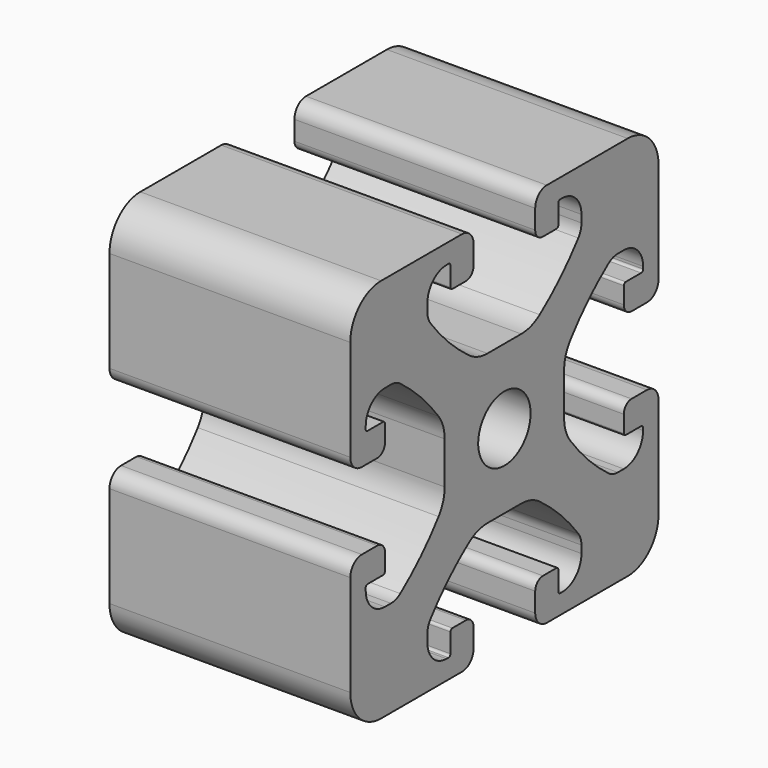
from build123d import *

# Parameters (mm, degrees)
F0_R     = 3.4
F1_DEPTH = 25


with BuildPart() as f1:
    # F0 (on Right) → F1 (new body)
    with BuildSketch(Plane.YZ):
        with BuildLine():
            Line((4.085178, -16.514598), (4.085178, -18.514598))
            ThreePointArc((4.085178, -18.514598), (4.524518, -19.575258), (5.585178, -20.014598))
            Line((5.585178, -20.014598), (16.085178, -20.014598))
            ThreePointArc((16.085178, -20.014598), (18.913605, -18.843025), (20.085178, -16.014598))
            Line((20.085178, -16.014598), (20.085178, -5.514598))
            ThreePointArc((20.085178, -5.514598), (19.645838, -4.453938), (18.585178, -4.014598))
            Line((18.585178, -4.014598), (16.585178, -4.014598))
            ThreePointArc((16.585178, -4.014598), (15.878071, -4.307491), (15.585178, -5.014598))
            Line((15.585178, -5.014598), (15.585178, -6.764598))
            ThreePointArc((15.585178, -6.764598), (15.658401, -6.941375), (15.835178, -7.014598))
            Line((15.835178, -7.014598), (17.835178, -7.014598))
            ThreePointArc((17.835178, -7.014598), (18.011955, -7.087821), (18.085178, -7.264598))
            Line((18.085178, -7.264598), (18.085178, -7.514598))
            ThreePointArc((18.085178, -7.514598), (17.352945, -9.282365), (15.585178, -10.014598))
            Line((15.585178, -10.014598), (14.805538, -10.014598))
            ThreePointArc((14.805538, -10.014598), (14.168971, -9.910589), (13.598613, -9.609381))
            ThreePointArc((13.598613, -9.609381), (10.934174, -7.278628), (8.625654, -4.594903))
            ThreePointArc((8.625654, -4.594903), (8.037936, -3.465013), (7.835178, -2.207654))
            Line((7.835178, -2.207654), (7.835178, 2.178458))
            ThreePointArc((7.835178, 2.178458), (8.037936, 3.435818), (8.625654, 4.565707))
            ThreePointArc((8.625654, 4.565707), (10.934174, 7.249432), (13.598613, 9.580185))
            ThreePointArc((13.598613, 9.580185), (14.168971, 9.881393), (14.805538, 9.985402))
            Line((14.805538, 9.985402), (15.585178, 9.985402))
            ThreePointArc((15.585178, 9.985402), (17.352945, 9.253169), (18.085178, 7.485402))
            Line((18.085178, 7.485402), (18.085178, 7.235402))
            ThreePointArc((18.085178, 7.235402), (18.011955, 7.058625), (17.835178, 6.985402))
            Line((17.835178, 6.985402), (15.835178, 6.985402))
            ThreePointArc((15.835178, 6.985402), (15.658401, 6.912179), (15.585178, 6.735402))
            Line((15.585178, 6.735402), (15.585178, 4.985402))
            ThreePointArc((15.585178, 4.985402), (15.878071, 4.278295), (16.585178, 3.985402))
            Line((16.585178, 3.985402), (18.585178, 3.985402))
            ThreePointArc((18.585178, 3.985402), (19.645838, 4.424742), (20.085178, 5.485402))
            Line((20.085178, 5.485402), (20.085178, 15.985402))
            ThreePointArc((20.085178, 15.985402), (18.913605, 18.813829), (16.085178, 19.985402))
            Line((16.085178, 19.985402), (5.585178, 19.985402))
            ThreePointArc((5.585178, 19.985402), (4.524518, 19.546062), (4.085178, 18.485402))
            Line((4.085178, 18.485402), (4.085178, 16.485402))
            ThreePointArc((4.085178, 16.485402), (4.378071, 15.778295), (5.085178, 15.485402))
            Line((5.085178, 15.485402), (6.835178, 15.485402))
            ThreePointArc((6.835178, 15.485402), (7.011955, 15.558625), (7.085178, 15.735402))
            Line((7.085178, 15.735402), (7.085178, 17.735402))
            ThreePointArc((7.085178, 17.735402), (7.158401, 17.912179), (7.335178, 17.985402))
            Line((7.335178, 17.985402), (7.585178, 17.985402))
            ThreePointArc((7.585178, 17.985402), (9.352945, 17.253169), (10.085178, 15.485402))
            Line((10.085178, 15.485402), (10.085178, 14.705762))
            ThreePointArc((10.085178, 14.705762), (9.981169, 14.069195), (9.67996, 13.498837))
            ThreePointArc((9.67996, 13.498837), (7.349208, 10.834398), (4.665483, 8.525878))
            ThreePointArc((4.665483, 8.525878), (3.535593, 7.93816), (2.278234, 7.735402))
            Line((2.278234, 7.735402), (-2.107878, 7.735402))
            ThreePointArc((-2.107878, 7.735402), (-3.365238, 7.93816), (-4.495127, 8.525878))
            ThreePointArc((-4.495127, 8.525878), (-7.178852, 10.834398), (-9.509605, 13.498837))
            ThreePointArc((-9.509605, 13.498837), (-9.810813, 14.069195), (-9.914822, 14.705762))
            Line((-9.914822, 14.705762), (-9.914822, 15.485402))
            ThreePointArc((-9.914822, 15.485402), (-9.182589, 17.253169), (-7.414822, 17.985402))
            Line((-7.414822, 17.985402), (-7.164822, 17.985402))
            ThreePointArc((-7.164822, 17.985402), (-6.988045, 17.912179), (-6.914822, 17.735402))
            Line((-6.914822, 17.735402), (-6.914822, 15.735402))
            ThreePointArc((-6.914822, 15.735402), (-6.841599, 15.558625), (-6.664822, 15.485402))
            Line((-6.664822, 15.485402), (-4.914822, 15.485402))
            ThreePointArc((-4.914822, 15.485402), (-4.207715, 15.778295), (-3.914822, 16.485402))
            Line((-3.914822, 16.485402), (-3.914822, 18.485402))
            ThreePointArc((-3.914822, 18.485402), (-4.354162, 19.546062), (-5.414822, 19.985402))
            Line((-5.414822, 19.985402), (-15.914822, 19.985402))
            ThreePointArc((-15.914822, 19.985402), (-18.743249, 18.813829), (-19.914822, 15.985402))
            Line((-19.914822, 15.985402), (-19.914822, 5.485402))
            ThreePointArc((-19.914822, 5.485402), (-19.475482, 4.424742), (-18.414822, 3.985402))
            Line((-18.414822, 3.985402), (-16.414822, 3.985402))
            ThreePointArc((-16.414822, 3.985402), (-15.707715, 4.278295), (-15.414822, 4.985402))
            Line((-15.414822, 4.985402), (-15.414822, 6.735402))
            ThreePointArc((-15.414822, 6.735402), (-15.488045, 6.912179), (-15.664822, 6.985402))
            Line((-15.664822, 6.985402), (-17.664822, 6.985402))
            ThreePointArc((-17.664822, 6.985402), (-17.841599, 7.058625), (-17.914822, 7.235402))
            Line((-17.914822, 7.235402), (-17.914822, 7.485402))
            ThreePointArc((-17.914822, 7.485402), (-17.182589, 9.253169), (-15.414822, 9.985402))
            Line((-15.414822, 9.985402), (-14.635182, 9.985402))
            ThreePointArc((-14.635182, 9.985402), (-13.998616, 9.881393), (-13.428257, 9.580185))
            ThreePointArc((-13.428257, 9.580185), (-10.763818, 7.249432), (-8.455298, 4.565707))
            ThreePointArc((-8.455298, 4.565707), (-7.86758, 3.435818), (-7.664822, 2.178458))
            Line((-7.664822, 2.178458), (-7.664822, -2.207654))
            ThreePointArc((-7.664822, -2.207654), (-7.86758, -3.465013), (-8.455298, -4.594903))
            ThreePointArc((-8.455298, -4.594903), (-10.763818, -7.278628), (-13.428257, -9.609381))
            ThreePointArc((-13.428257, -9.609381), (-13.998616, -9.910589), (-14.635182, -10.014598))
            Line((-14.635182, -10.014598), (-15.414822, -10.014598))
            ThreePointArc((-15.414822, -10.014598), (-17.182589, -9.282365), (-17.914822, -7.514598))
            Line((-17.914822, -7.514598), (-17.914822, -7.264598))
            ThreePointArc((-17.914822, -7.264598), (-17.841599, -7.087821), (-17.664822, -7.014598))
            Line((-17.664822, -7.014598), (-15.664822, -7.014598))
            ThreePointArc((-15.664822, -7.014598), (-15.488045, -6.941375), (-15.414822, -6.764598))
            Line((-15.414822, -6.764598), (-15.414822, -5.014598))
            ThreePointArc((-15.414822, -5.014598), (-15.707715, -4.307491), (-16.414822, -4.014598))
            Line((-16.414822, -4.014598), (-18.414822, -4.014598))
            ThreePointArc((-18.414822, -4.014598), (-19.475482, -4.453938), (-19.914822, -5.514598))
            Line((-19.914822, -5.514598), (-19.914822, -16.014598))
            ThreePointArc((-19.914822, -16.014598), (-18.743249, -18.843025), (-15.914822, -20.014598))
            Line((-15.914822, -20.014598), (-5.414822, -20.014598))
            ThreePointArc((-5.414822, -20.014598), (-4.354162, -19.575258), (-3.914822, -18.514598))
            Line((-3.914822, -18.514598), (-3.914822, -16.514598))
            ThreePointArc((-3.914822, -16.514598), (-4.207715, -15.807491), (-4.914822, -15.514598))
            Line((-4.914822, -15.514598), (-6.664822, -15.514598))
            ThreePointArc((-6.664822, -15.514598), (-6.841599, -15.587821), (-6.914822, -15.764598))
            Line((-6.914822, -15.764598), (-6.914822, -17.764598))
            ThreePointArc((-6.914822, -17.764598), (-6.988045, -17.941375), (-7.164822, -18.014598))
            Line((-7.164822, -18.014598), (-7.414822, -18.014598))
            ThreePointArc((-7.414822, -18.014598), (-9.182589, -17.282365), (-9.914822, -15.514598))
            Line((-9.914822, -15.514598), (-9.914822, -14.734958))
            ThreePointArc((-9.914822, -14.734958), (-9.810813, -14.098391), (-9.509605, -13.528033))
            ThreePointArc((-9.509605, -13.528033), (-7.178852, -10.863594), (-4.495127, -8.555074))
            ThreePointArc((-4.495127, -8.555074), (-3.365238, -7.967356), (-2.107878, -7.764598))
            Line((-2.107878, -7.764598), (2.278234, -7.764598))
            ThreePointArc((2.278234, -7.764598), (3.535593, -7.967356), (4.665483, -8.555074))
            ThreePointArc((4.665483, -8.555074), (7.349208, -10.863594), (9.67996, -13.528033))
            ThreePointArc((9.67996, -13.528033), (9.981169, -14.098391), (10.085178, -14.734958))
            Line((10.085178, -14.734958), (10.085178, -15.514598))
            ThreePointArc((10.085178, -15.514598), (9.352945, -17.282365), (7.585178, -18.014598))
            Line((7.585178, -18.014598), (7.335178, -18.014598))
            ThreePointArc((7.335178, -18.014598), (7.158401, -17.941375), (7.085178, -17.764598))
            Line((7.085178, -17.764598), (7.085178, -15.764598))
            ThreePointArc((7.085178, -15.764598), (7.011955, -15.587821), (6.835178, -15.514598))
            Line((6.835178, -15.514598), (5.085178, -15.514598))
            ThreePointArc((5.085178, -15.514598), (4.378071, -15.807491), (4.085178, -16.514598))
        make_face()
        with Locations((0.085178, -0.014598)):
            Circle(F0_R, mode=Mode.SUBTRACT)
    extrude(amount=-F1_DEPTH)


solid = f1.part
